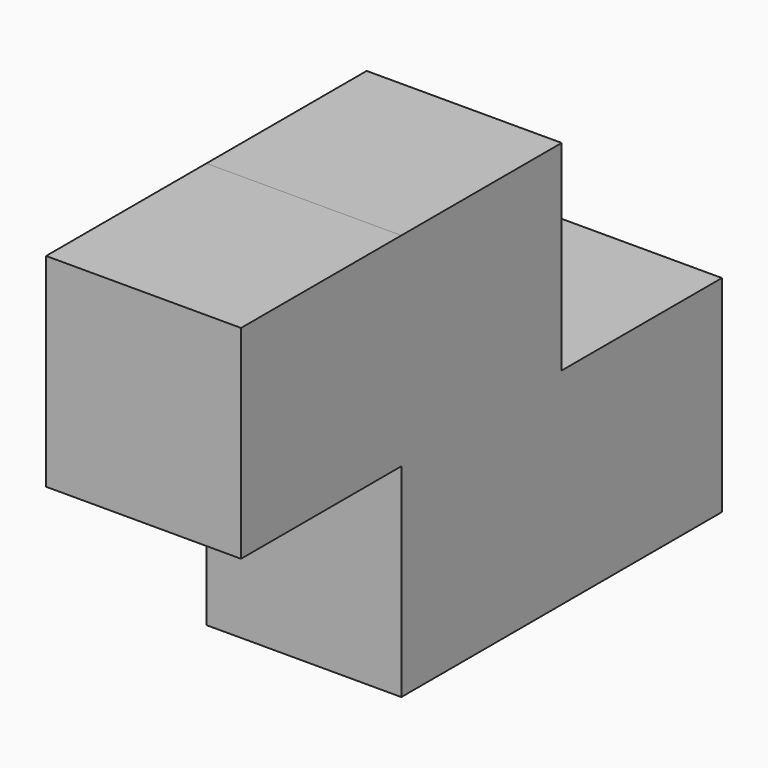
from build123d import *

# Parameters (mm, degrees)
F0_W     = 18.536399
F0_H     = 19.591486
F1_DEPTH = 38.1
F2_W     = 18.536399
F2_H     = 19.05
F3_DEPTH = 19.05
F4_W     = 18.536399
F4_H     = 19.320743
F5_DEPTH = 19.05


with BuildPart() as f1:
    # F0 (on Front) → F1 (new body)
    with BuildSketch(Plane.XZ):
        with Locations((-30.530537, 30.485642)):
            Rectangle(F0_W, F0_H)
    extrude(amount=-F1_DEPTH)

    # F2 (on face) → F3 (join)
    with BuildSketch(Plane.XY.offset(40.281385)):
        with Locations((-30.530537, 9.525)):
            Rectangle(F2_W, F2_H)
    extrude(amount=F3_DEPTH)

    # F4 (on face) → F5 (join)
    with BuildSketch(Plane.XZ):
        with Locations((-30.530537, 49.671014)):
            Rectangle(F4_W, F4_H)
    extrude(amount=F5_DEPTH)


solid = f1.part
